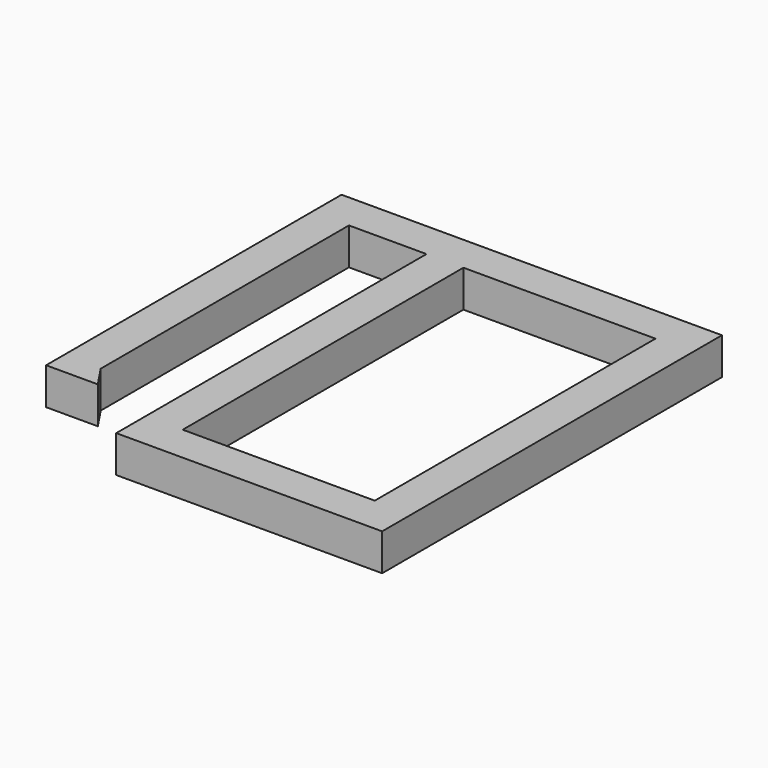
from build123d import *

# Parameters (mm, degrees)
F0_W     = 26
F0_H     = 47.5
F1_DEPTH = 5


with BuildPart() as f1:
    # F0 (on Top) → F1 (new body)
    with BuildSketch(Plane.XY):
        Polygon((-20.5, 65.303798), (-20.5, 15.303798), (-13.5, 15.303798), (-15.5, 18.303798), (-15.5, 60.303798), (-5, 60.303798), (-5, 7.803798), (31, 7.803798), (31, 65.303798), align=None)
        with Locations((13, 36.553798)):
            Rectangle(F0_W, F0_H, mode=Mode.SUBTRACT)
    extrude(amount=F1_DEPTH)


solid = f1.part
